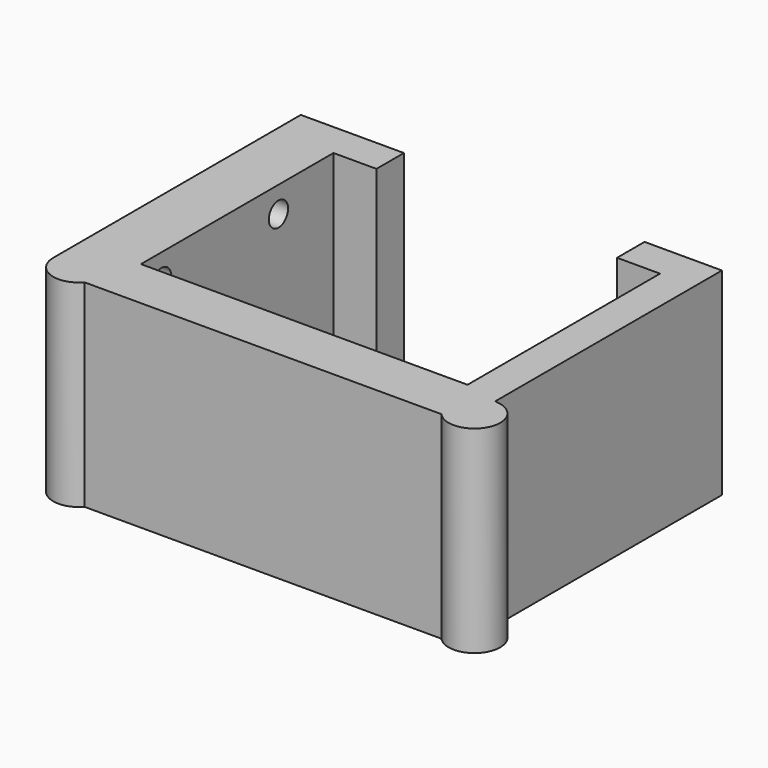
from build123d import *

# Parameters (mm, degrees)
PAD014_DEPTH    = 23
PAD015_DEPTH    = 23
SKETCH022_W     = 36
SKETCH022_H     = 23
PAD016_DEPTH    = 3
SKETCH023_R     = 1.4
POCKET004_DEPTH = 5


with BuildPart() as part:
    # Sketch019 → Pad014 (new body)
    with BuildSketch(Plane.XY):
        Polygon((4, 4), (42, 4), (42, 32), (37, 32), (37, 36), (46, 36), (46, 0), (0, 0), (0, 36), (9, 36), (9, 32), (4, 32), align=None)
    extrude(amount=PAD014_DEPTH)

    # Sketch020 → Pad015 (join)
    with BuildSketch(Plane.XY):
        with BuildLine():
            ThreePointArc((43.763932, -2), (48.738613, -1.224745), (46, 3))
            Line((46, 3), (46, 0))
            Line((0, 0), (46, 0))
            Line((0, 3), (0, 0))
            ThreePointArc((0, 3), (-2.738613, -1.224745), (2.236068, -2))
            Line((2.236068, -2), (43.763932, -2))
        make_face()
    extrude(amount=PAD015_DEPTH)

    # Sketch022 → Pad016 (join)
    with BuildSketch(Plane.YZ):
        with Locations((18, 11.5)):
            Rectangle(SKETCH022_W, SKETCH022_H)
    extrude(amount=-PAD016_DEPTH)

    # Sketch023 → Pocket004 (cut, symmetric)
    with BuildSketch(Plane.YZ):
        with Locations((7, 20)):
            Circle(SKETCH023_R)
        with Locations((24, 20)):
            Circle(SKETCH023_R)
        with Locations((7, 3)):
            Circle(SKETCH023_R)
        with Locations((24, 3)):
            Circle(SKETCH023_R)
    extrude(amount=POCKET004_DEPTH, both=True, mode=Mode.SUBTRACT)


solid = part.part
